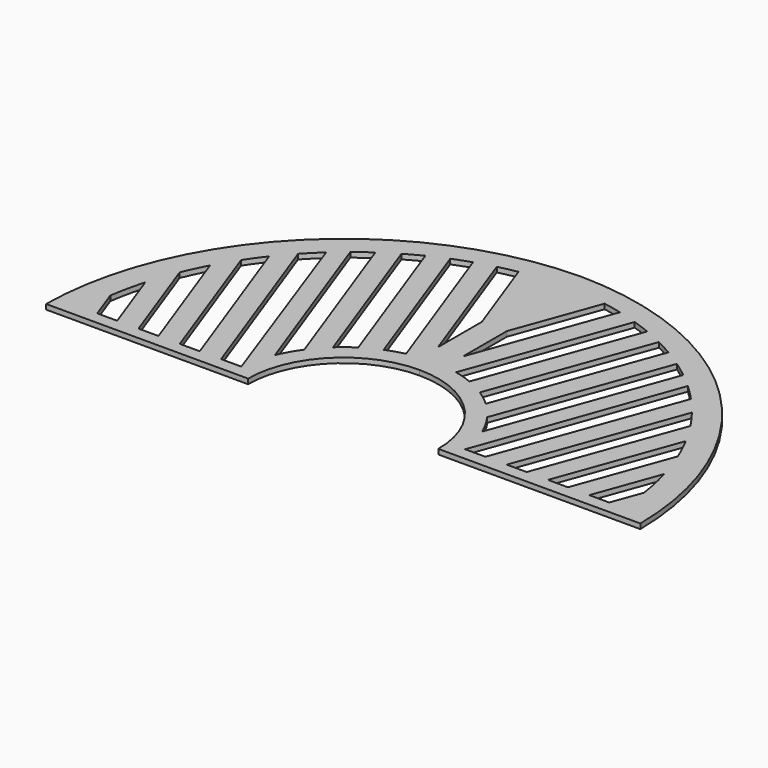
from build123d import *

# Parameters (mm, degrees)
F1_DEPTH = 2.54


with BuildPart() as f1:
    # F0 (on Top) → F1 (new body)
    with BuildSketch(Plane.XY):
        with BuildLine():
            ThreePointArc((0, 48.26), (34.124973, 34.124973), (48.26, 0))
            Line((48.26, 0), (150.8125, 0))
            ThreePointArc((150.8125, 0), (106.183757, 106.183757), (0, 150.8125))
            Line((0, 150.8125), (0, 48.26))
        make_face()
        with BuildLine():
            Line((84.506493, 110.11853), (52.578475, 22.397019))
            ThreePointArc((52.578475, 22.397019), (49.801558, 28.034396), (46.422481, 33.332803))
            Line((46.422481, 33.332803), (76.52652, 116.04297))
            ThreePointArc((76.52652, 116.04297), (80.569209, 113.151738), (84.506493, 110.11853))
        make_face(mode=Mode.SUBTRACT)
        with BuildLine():
            Line((108.98855, 6.35), (98.852257, 6.35))
            Line((98.852257, 6.35), (120.71846, 66.4269))
            ThreePointArc((120.71846, 66.4269), (123.721116, 60.419279), (126.431564, 54.274287))
            Line((126.431564, 54.274287), (108.98855, 6.35))
        make_face(mode=Mode.SUBTRACT)
        with BuildLine():
            ThreePointArc((131.706002, 39.059832), (133.869559, 30.368774), (135.471763, 21.55694))
            Line((135.471763, 21.55694), (129.93689, 6.35))
            Line((129.93689, 6.35), (119.800596, 6.35))
            Line((119.800596, 6.35), (131.706002, 39.059832))
        make_face(mode=Mode.SUBTRACT)
        with BuildLine():
            Line((67.091871, 6.35), (56.796127, 6.35))
            Line((56.796127, 6.35), (91.779944, 103.885775))
            ThreePointArc((91.779944, 103.885775), (95.827883, 100.016544), (99.717507, 95.988197))
            Line((99.717507, 95.988197), (67.091871, 6.35))
        make_face(mode=Mode.SUBTRACT)
        with BuildLine():
            Line((88.040211, 6.35), (77.903917, 6.35))
            Line((77.903917, 6.35), (107.29494, 87.10117))
            ThreePointArc((107.29494, 87.10117), (110.755392, 82.487904), (114.022499, 77.735749))
            Line((114.022499, 77.735749), (88.040211, 6.35))
        make_face(mode=Mode.SUBTRACT)
        with BuildLine():
            ThreePointArc((21.763532, 52.843838), (17.280179, 54.474929), (12.676404, 55.726397))
            Line((12.676404, 55.726397), (41.041329, 133.658389))
            ThreePointArc((41.041329, 133.658389), (45.538899, 132.089902), (49.980383, 130.368999))
            Line((49.980383, 130.368999), (21.763532, 52.843838))
        make_face(mode=Mode.SUBTRACT)
        with BuildLine():
            Line((31.26083, 136.49254), (6.35, 68.050598))
            Line((6.35, 68.050598), (6.35, 95.899834))
            Line((6.35, 95.899834), (21.858168, 138.508175))
            ThreePointArc((21.858168, 138.508175), (26.576847, 137.581285), (31.26083, 136.49254))
        make_face(mode=Mode.SUBTRACT)
        with BuildLine():
            ThreePointArc((38.763073, 41.994603), (34.94125, 45.224236), (30.851582, 48.107197))
            Line((30.851582, 48.107197), (59.269677, 126.185272))
            ThreePointArc((59.269677, 126.185272), (63.546378, 123.975746), (67.744416, 121.620189))
            Line((67.744416, 121.620189), (38.763073, 41.994603))
        make_face(mode=Mode.SUBTRACT)
    extrude(amount=F1_DEPTH)

    # F2: F1 across plane


with BuildPart() as f1_1:
    add(f1.part)
    add(f1.part.mirror(Plane.YZ))


solid = f1_1.part
